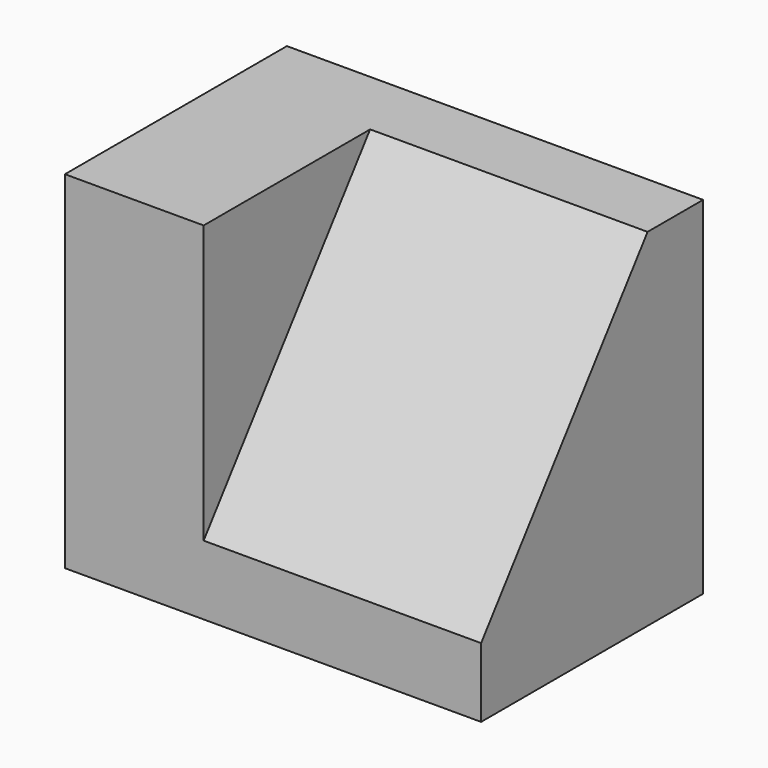
from build123d import *

# Parameters (mm, degrees)
F1_DEPTH = 38.1
F3_DEPTH = 12.7


with BuildPart() as f1:
    # F0 (on Right) → F1 (new body)
    with BuildSketch(Plane.YZ):
        Polygon((0, 6.35), (0, 0), (25.4, 0), (25.4, 31.75), (19.05, 31.75), align=None)
    extrude(amount=F1_DEPTH)

    # F2 (on face) → F3 (join)
    with BuildSketch(Plane(origin=(0, 0, 0), x_dir=(0, -1, 0), z_dir=(-1, 0, 0))):
        Polygon((0, 31.75), (-19.05, 31.75), (0, 6.35), align=None)
    extrude(amount=-F3_DEPTH)


solid = f1.part
